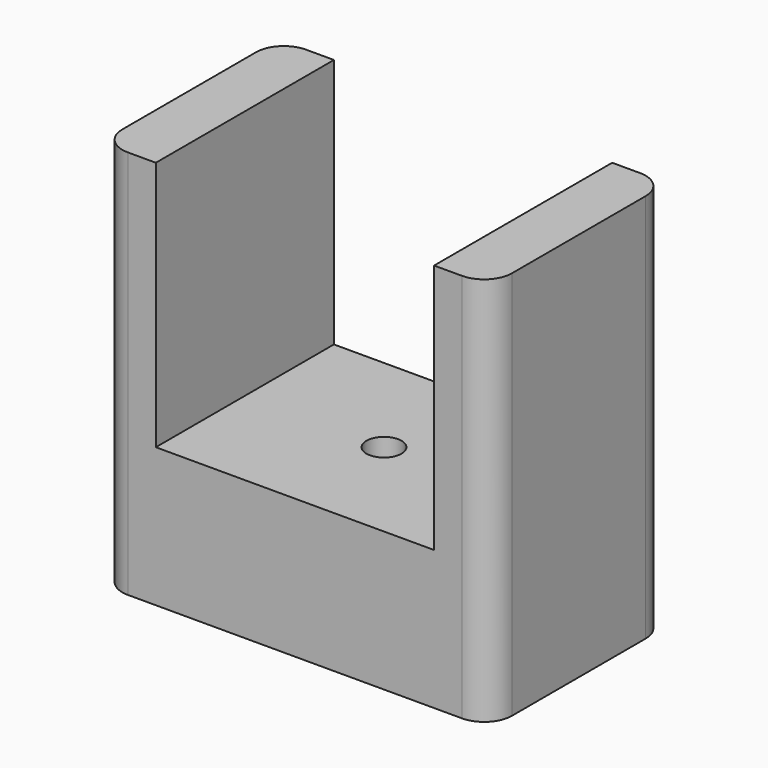
from build123d import *

# Parameters (mm, degrees)
F0_W     = 63.5
F0_H     = 50.8
F0_R     = 4
F1_DEPTH = 31.75
F2_DEPTH = 88.9


with BuildPart() as f1:
    # F0 (on Top) → F1 (new body)
    with BuildSketch(Plane.XY):
        Rectangle(F0_W, F0_H)
        Circle(F0_R, mode=Mode.SUBTRACT)
    extrude(amount=F1_DEPTH)

    # F0 (on Top) → F2 (join)
    with BuildSketch(Plane.XY):
        with BuildLine():
            Line((-31.75, -25.4), (-31.75, 25.4))
            Line((-31.75, 25.4), (-38.1, 25.4))
            ThreePointArc((-38.1, 25.4), (-42.590128, 23.540128), (-44.45, 19.05))
            Line((-44.45, 19.05), (-44.45, -19.05))
            ThreePointArc((-44.45, -19.05), (-42.590128, -23.540128), (-38.1, -25.4))
            Line((-38.1, -25.4), (-31.75, -25.4))
        make_face()
        with BuildLine():
            ThreePointArc((44.45, 19.05), (42.590128, 23.540128), (38.1, 25.4))
            Line((38.1, 25.4), (31.75, 25.4))
            Line((31.75, 25.4), (31.75, -25.4))
            Line((31.75, -25.4), (38.1, -25.4))
            ThreePointArc((38.1, -25.4), (42.590128, -23.540128), (44.45, -19.05))
            Line((44.45, -19.05), (44.45, 19.05))
        make_face()
    extrude(amount=F2_DEPTH)


solid = f1.part
